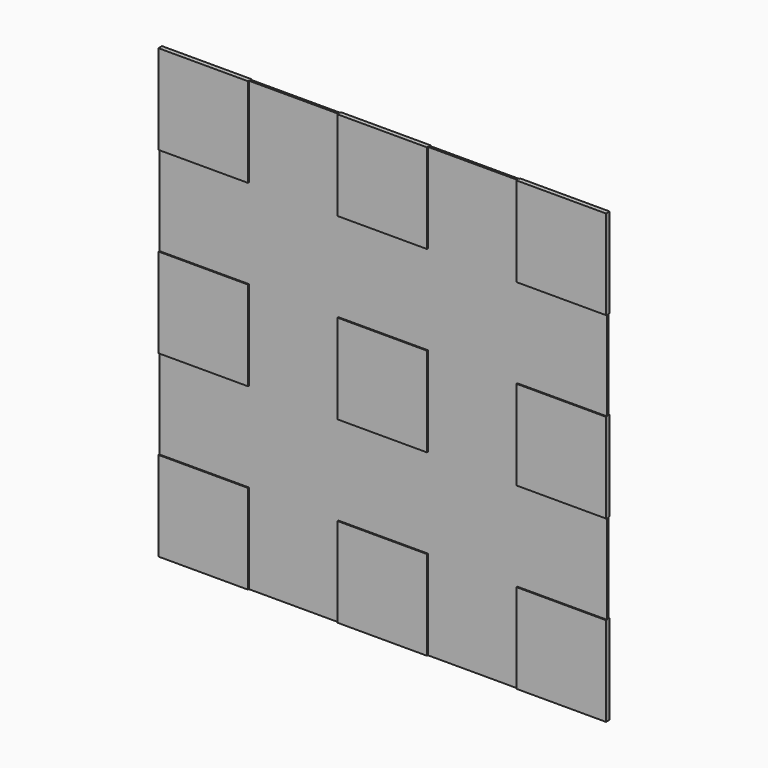
from build123d import *

# Parameters (mm, degrees)
F0_W     = 20
F0_H     = 20
F1_DEPTH = 0.5
F2_DEPTH = 0.25


with BuildPart() as f1:
    # F0 (on Front) → F1 (new body, symmetric)
    with BuildSketch(Plane.XZ):
        with Locations((-40, 40)):
            Rectangle(F0_W, F0_H)
    extrude(amount=F1_DEPTH, both=True)


with BuildPart() as f1b:
    # F0 (on Front) → F1, piece 2 (new body, symmetric)
    with BuildSketch(Plane.XZ):
        with Locations((0, 40)):
            Rectangle(F0_W, F0_H)
    extrude(amount=F1_DEPTH, both=True)


with BuildPart() as f1c:
    # F0 (on Front) → F1, piece 3 (new body, symmetric)
    with BuildSketch(Plane.XZ):
        with Locations((40, 40)):
            Rectangle(F0_W, F0_H)
    extrude(amount=F1_DEPTH, both=True)


with BuildPart() as f1d:
    # F0 (on Front) → F1, piece 4 (new body, symmetric)
    with BuildSketch(Plane.XZ):
        with Locations((-40, 0)):
            Rectangle(F0_W, F0_H)
    extrude(amount=F1_DEPTH, both=True)


with BuildPart() as f1e:
    # F0 (on Front) → F1, piece 5 (new body, symmetric)
    with BuildSketch(Plane.XZ):
        Rectangle(F0_W, F0_H)
    extrude(amount=F1_DEPTH, both=True)


with BuildPart() as f1f:
    # F0 (on Front) → F1, piece 6 (new body, symmetric)
    with BuildSketch(Plane.XZ):
        with Locations((40, 0)):
            Rectangle(F0_W, F0_H)
    extrude(amount=F1_DEPTH, both=True)


with BuildPart() as f1g:
    # F0 (on Front) → F1, piece 7 (new body, symmetric)
    with BuildSketch(Plane.XZ):
        with Locations((-40, -40)):
            Rectangle(F0_W, F0_H)
    extrude(amount=F1_DEPTH, both=True)


with BuildPart() as f1h:
    # F0 (on Front) → F1, piece 8 (new body, symmetric)
    with BuildSketch(Plane.XZ):
        with Locations((0, -40)):
            Rectangle(F0_W, F0_H)
    extrude(amount=F1_DEPTH, both=True)


with BuildPart() as f1i:
    # F0 (on Front) → F1, piece 9 (new body, symmetric)
    with BuildSketch(Plane.XZ):
        with Locations((40, -40)):
            Rectangle(F0_W, F0_H)
    extrude(amount=F1_DEPTH, both=True)


with BuildPart() as f2:
    # F0 (on Front) → F2 (new body, symmetric)
    with BuildSketch(Plane.XZ):
        with Locations((-20, 40)):
            Rectangle(F0_W, F0_H)
        with Locations((-40, 20)):
            Rectangle(F0_W, F0_H)
        with Locations((-20, 20)):
            Rectangle(F0_W, F0_H)
        with Locations((20, 40)):
            Rectangle(F0_W, F0_H)
        with Locations((20, 20)):
            Rectangle(F0_W, F0_H)
        with Locations((0, 20)):
            Rectangle(F0_W, F0_H)
        with Locations((40, 20)):
            Rectangle(F0_W, F0_H)
        with Locations((20, 0)):
            Rectangle(F0_W, F0_H)
        with Locations((-20, 0)):
            Rectangle(F0_W, F0_H)
        with Locations((-40, -20)):
            Rectangle(F0_W, F0_H)
        with Locations((-20, -20)):
            Rectangle(F0_W, F0_H)
        with Locations((0, -20)):
            Rectangle(F0_W, F0_H)
        with Locations((20, -20)):
            Rectangle(F0_W, F0_H)
        with Locations((40, -20)):
            Rectangle(F0_W, F0_H)
        with Locations((20, -40)):
            Rectangle(F0_W, F0_H)
        with Locations((-20, -40)):
            Rectangle(F0_W, F0_H)
    extrude(amount=F2_DEPTH, both=True)


solid = Compound([f1.part, f1b.part, f1c.part, f1d.part, f1e.part, f1f.part, f1g.part, f1h.part, f1i.part, f2.part])
